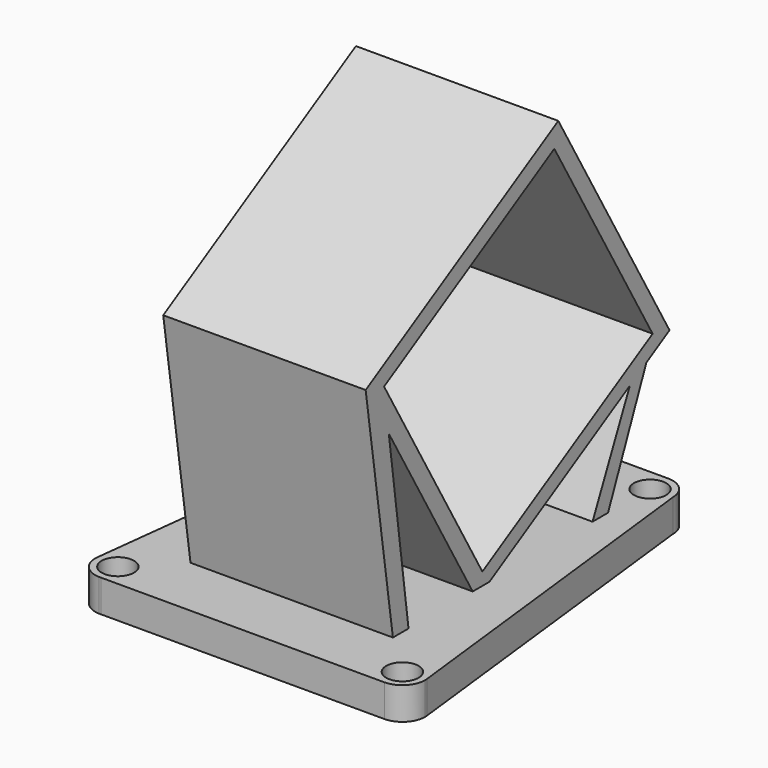
from build123d import *

# Parameters (mm, degrees)
F2_DEPTH = 5
F3_D     = 5
F6_DEPTH = 31.3


with BuildPart() as f2:
    # F1 (on Top) → F2 (new body)
    with BuildSketch(Plane.XY):
        with BuildLine():
            ThreePointArc((-18.9928135453, 17.7327254881), (-15.4959787625, 14.226407891), (-11.9928192496, 17.726406465))
            ThreePointArc((-11.9928192496, 17.726406465), (-13.0164454835, 20.1997792575), (-15.4885752329, 21.2264038919))
            ThreePointArc((-15.4885752329, 21.2264038919), (-17.9639555673, 20.2050119801), (-18.9928135453, 17.7327254881))
        make_face()
        with BuildLine():
            ThreePointArc((-15.4885752329, 21.2264038919), (-13.0164454835, 20.1997792575), (-11.9928192496, 17.726406465))
            ThreePointArc((-11.9928192496, 17.726406465), (-15.4959787625, 14.226407891), (-18.9928135453, 17.7327254881))
            Line((-18.9928135453, 17.7327254881), (-25.4770891107, -37.888429023))
            ThreePointArc((-25.4770891107, -37.888429023), (-21.797650123, -34.7996028161), (-18.5006331801, -38.2937118411))
            ThreePointArc((-18.5006331801, -38.2937118411), (-19.4711098532, -40.7127016589), (-21.8443541735, -41.7902210821))
            Line((-21.8443541735, -41.7902210821), (21.9980642511, -41.7891520748))
            ThreePointArc((21.9980642511, -41.7891520748), (19.3836869362, -35.9620342294), (25.4744262299, -37.8837953968))
            Line((25.4744262299, -37.8837953968), (18.9895786755, 17.7319920337))
            ThreePointArc((18.9895786755, 17.7319920337), (13.0143403088, 15.2593596765), (15.4887358258, 21.2338681198))
            Line((15.4887358258, 21.2338681198), (-15.4885752329, 21.2264038919))
        make_face()
        with BuildLine():
            ThreePointArc((18.9895791784, 17.7338682214), (17.9641547244, 20.2090401077), (15.4887358258, 21.2338681198))
            ThreePointArc((15.4887358258, 21.2338681198), (13.0143403088, 15.2593596765), (18.9895786755, 17.7319920337))
            ThreePointArc((18.9895786755, 17.7319920337), (18.9895790527, 17.7329301275), (18.9895791784, 17.7338682214))
        make_face()
        with BuildLine():
            ThreePointArc((-18.5006331801, -38.2937118411), (-21.797650123, -34.7996028161), (-25.4770891107, -37.888429023))
            ThreePointArc((-25.4770891107, -37.888429023), (-24.6661333689, -40.5619950562), (-22.1567416762, -41.790228699))
            Line((-22.1567416762, -41.790228699), (-21.8443541735, -41.7902210821))
            ThreePointArc((-21.8443541735, -41.7902210821), (-19.4711098532, -40.7127016589), (-18.5006331801, -38.2937118411))
        make_face()
        with BuildLine():
            Line((-21.8443541735, -41.7902210821), (-22.1567416762, -41.790228699))
            ThreePointArc((-22.1567416762, -41.790228699), (-22.0005478398, -41.7937118401), (-21.8443541735, -41.7902210821))
        make_face()
        with BuildLine():
            ThreePointArc((25.4979789108, -38.2891520759), (25.4920857793, -38.0861319007), (25.4744262299, -37.8837953968))
            ThreePointArc((25.4744262299, -37.8837953968), (19.3836869362, -35.9620342294), (21.9980642511, -41.7891520748))
            ThreePointArc((21.9980642511, -41.7891520748), (24.4728828171, -40.7639956375), (25.4979789108, -38.2891520759))
        make_face()
    extrude(amount=F2_DEPTH)

    # F3 (through all)
    with Locations(Plane(origin=(0, 0, 0), x_dir=(1, 0, 0), z_dir=(0, 0, -1))):
        with Locations((-15.5, -17.7061764002), (15.5, -17.7061764002), (-22, 38.2938235998), (22, 38.2938235998)):
            Hole(F3_D / 2)

    # F5 (on offset) → F6 (join)
    with BuildSketch(Plane.YZ.offset(15.5)):
        Polygon((-28.8004414439, 3.5987684969), (-32.7974634149, 33.0814354707), (-37.2756377012, 40.8378608596), (-31.8004414439, 3.5987684969), align=None)
        Polygon((-37.2756377012, 40.8378608596), (-32.7974634149, 33.0814354707), (-15.7756377012, 3.5987684969), (13.7907450582, 20.6689275419), (16.9883244112, 22.5150508422), (21.4634546616, 25.0987684969), (-0.0365453384, 62.3378608596), align=None)
        Polygon((18.1931839084, 25.9461292587), (-14.7157814354, 6.9461292587), (-33.7157814354, 39.8550946025), (-0.8068160916, 58.8550946025), align=None, mode=Mode.SUBTRACT)
        Polygon((16.9883244112, 22.5150508422), (13.7907450582, 20.6689275419), (6.5782903694, 5.0800526515), (9.5782903694, 5.0800526515), align=None)
    extrude(amount=-F6_DEPTH)


solid = f2.part
